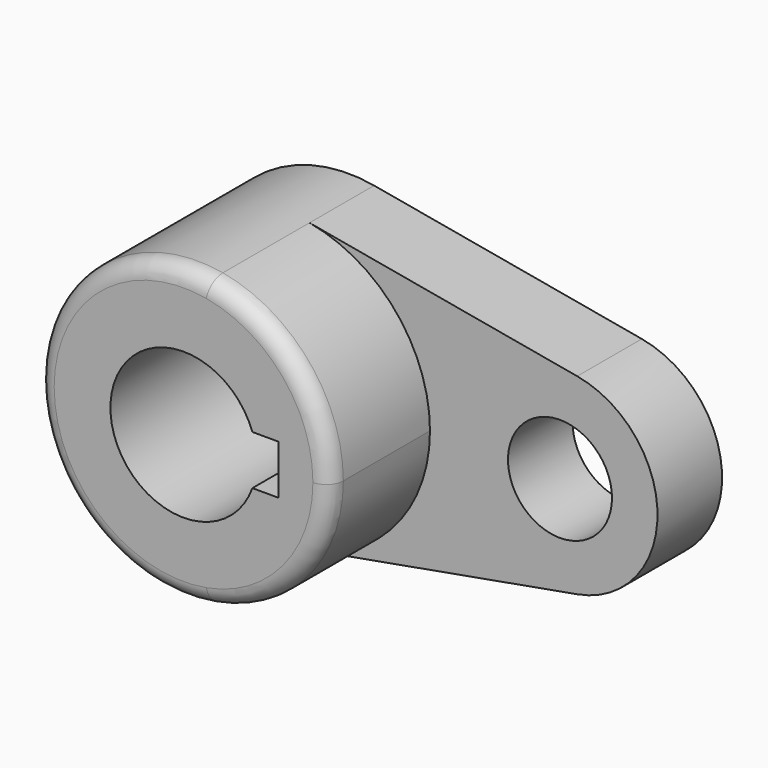
from build123d import *

# Parameters (mm, degrees)
F1_DEPTH = 40.2336
F0_R     = 10.16
F2_DEPTH = 15.7734
F3_R     = 3.302


with BuildPart() as f1:
    # F0 (on Front) → F1 (new body)
    with BuildSketch(Plane.XZ):
        with BuildLine():
            ThreePointArc((5.042647, -28.126541), (21.916025, -18.336262), (28.575, 0))
            ThreePointArc((28.575, 0), (21.916025, 18.336262), (5.042647, 28.126541))
            ThreePointArc((5.042647, 28.126541), (-28.575, 0), (5.042647, -28.126541))
        make_face()
        with BuildLine():
            ThreePointArc((13.447765, -4.826), (-14.2875, 0), (13.447765, 4.826))
            Line((13.447765, 4.826), (18.5293, 4.826))
            Line((18.5293, 4.826), (18.5293, -4.826))
            Line((18.5293, -4.826), (13.447765, -4.826))
        make_face(mode=Mode.SUBTRACT)
    extrude(amount=F1_DEPTH)

    # F0 (on Front) → F2 (join)
    with BuildSketch(Plane.XZ):
        with BuildLine():
            ThreePointArc((5.042647, 28.126541), (21.916025, 18.336262), (28.575, 0))
            ThreePointArc((28.575, 0), (21.916025, -18.336262), (5.042647, -28.126541))
            Line((5.042647, -28.126541), (57.336765, -18.751028))
            ThreePointArc((57.336765, -18.751028), (73.025, 0), (57.336765, 18.751028))
            Line((57.336765, 18.751028), (5.042647, 28.126541))
        make_face()
        with Locations((53.975, 0)):
            Circle(F0_R, mode=Mode.SUBTRACT)
    extrude(amount=F2_DEPTH)

    # F3
    f3_edges = [f1.edges().sort_by_distance(p)[0] for p in [
        (-5.042647, -40.2336, 28.126541),
    ]]
    fillet(f3_edges, radius=F3_R)


solid = f1.part
